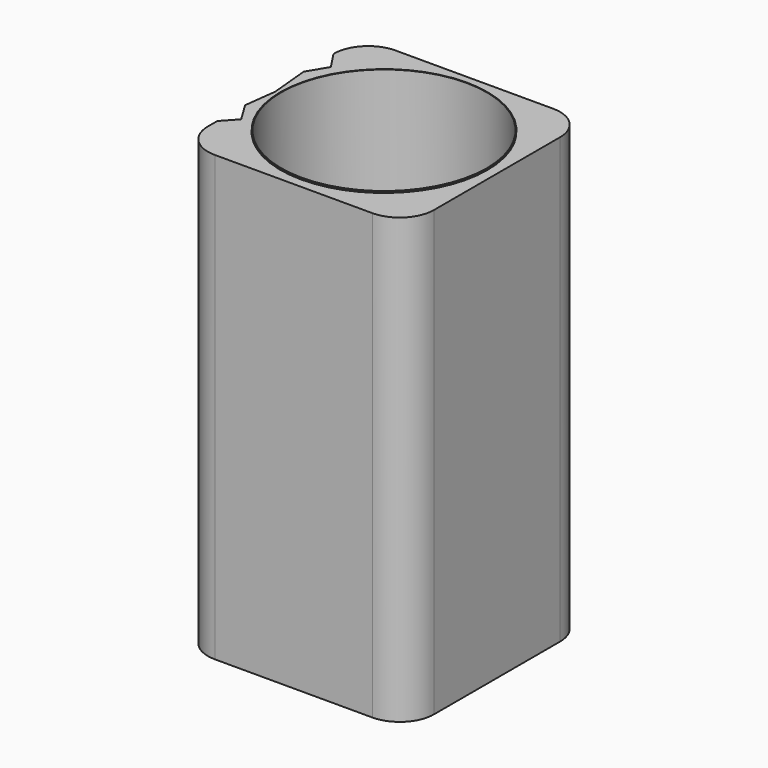
from build123d import *

# Parameters (mm, degrees)
F0_W     = 0.1
F0_H     = 65
F2_R     = 15.1
F3_DEPTH = 64.8
F4_R     = 15.089878
F5_DEPTH = 4


with BuildPart() as f1:
    # F0 (on Front) → F1 (revolve)
    with BuildSketch(Plane.XZ):
        with Locations((-15.05, 32.5)):
            Rectangle(F0_W, F0_H)
    revolve(axis=Axis((0, 0, 13.169291), (0, 0, 1)))

    # F2 (on Top) → F3 (join)
    with BuildSketch(Plane.XY):
        with BuildLine():
            Line((-11.5, -16.5), (11.5, -16.5))
            ThreePointArc((11.5, -16.5), (15.035534, -15.035534), (16.5, -11.5))
            Line((16.5, -11.5), (16.5, 11.5))
            ThreePointArc((16.5, 11.5), (15.035534, 15.035534), (11.5, 16.5))
            Line((11.5, 16.5), (-11.509184, 16.5))
            ThreePointArc((-11.509184, 16.5), (-15.07744, 15.002506), (-16.508319, 11.407019))
            Line((-16.508319, 11.407019), (-14.724482, 8.708321))
            Line((-14.724482, 8.708321), (-16.424482, 5.869184))
            Line((-16.424482, 5.869184), (-15.872665, 0))
            Line((-15.872665, 0), (-16.470676, -4.755567))
            Line((-16.470676, -4.755567), (-14.637756, -7.762516))
            Line((-14.637756, -7.762516), (-16.492511, -9.777418))
            Line((-16.492511, -9.777418), (-16.5, -11.5))
            ThreePointArc((-16.5, -11.5), (-15.035534, -15.035534), (-11.5, -16.5))
        make_face()
        Circle(F2_R, mode=Mode.SUBTRACT)
    extrude(amount=F3_DEPTH)

    # F4 (on Top) → F5 (join)
    with BuildSketch(Plane.XY):
        Circle(F4_R)
    extrude(amount=F5_DEPTH)


solid = f1.part
